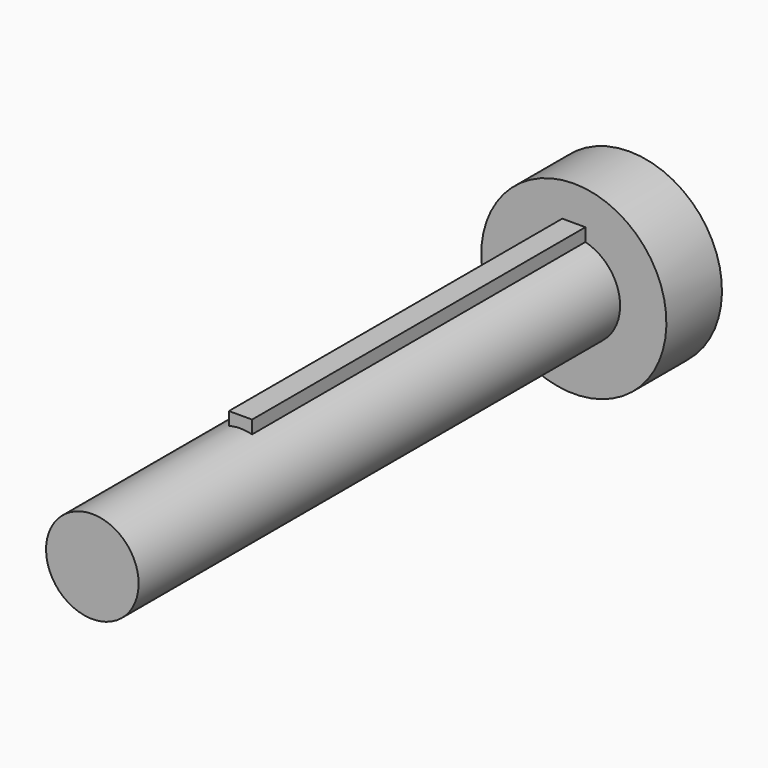
from build123d import *

# Parameters (mm, degrees)
F2_W     = 1
F2_H     = 1
F3_DEPTH = 18


with BuildPart() as f1:
    # F0 (on Right) → F1 (revolve)
    with BuildSketch(Plane.YZ):
        Polygon((-5.810043, 0), (23.189957, 0), (23.189957, 4), (20.189957, 4), (20.189957, 2), (-5.810043, 2), align=None)
    revolve(axis=Axis((0, 4.229855, 0), (0, 1, 0)))

    # F2 (on face) → F3 (join)
    with BuildSketch(Plane.XZ.offset(-20.189957)):
        with Locations((0, 2)):
            Rectangle(F2_W, F2_H)
    extrude(amount=F3_DEPTH)


solid = f1.part
